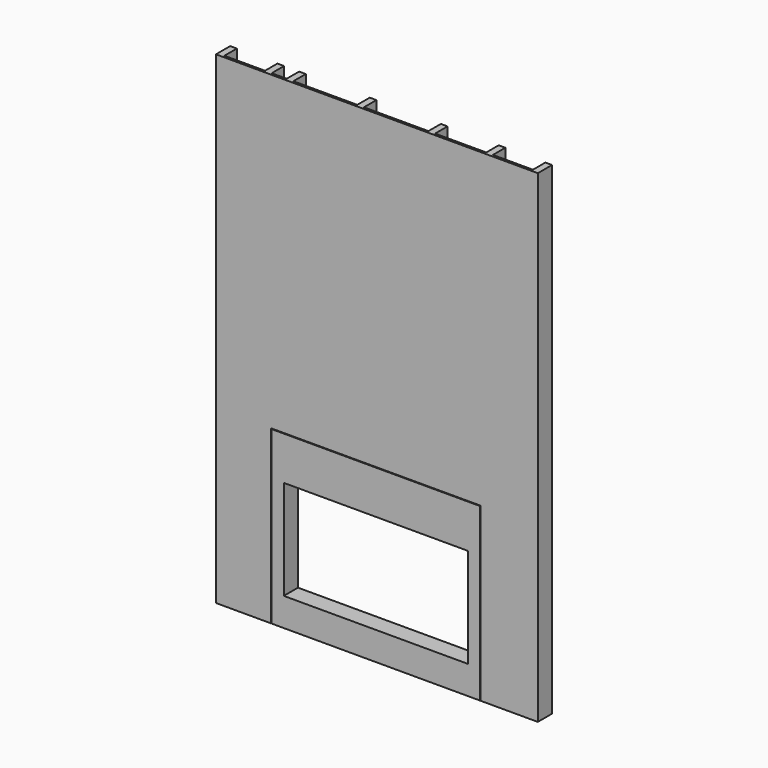
from build123d import *

# Parameters (mm, degrees)
F0_W     = 38.1
F0_H     = 2720.975
F0_H_2   = 1689.1
F1_DEPTH = 88.9
F2_W     = 1190.625
F2_H     = 977.9
F2_W_2   = 1050.925
F2_H_2   = 568.325
F3_DEPTH = 101.6
F4_W     = 412.75
F4_H     = 914.4
F4_W_2   = 1425.575
F4_W_3   = 314.325
F4_H_2   = 981.075
F4_W_4   = 327.025
F5_DEPTH = 12.7


with BuildPart() as f1:
    # F0 (on Front) → F1 (new body)
    with BuildSketch(Plane.XZ):
        with Locations((19.05, 1398.5875)):
            Rectangle(F0_W, F0_H)
        Polygon((38.1, 38.1), (0, 38.1), (0, 0), (307.975, 0), (307.975, 38.1), (269.875, 38.1), align=None)
        Polygon((269.875, 2759.075), (269.875, 38.1), (307.975, 38.1), (307.975, 1031.875), (307.975, 1069.975), (307.975, 2759.075), align=None)
        Polygon((307.975, 1069.975), (307.975, 1031.875), (1533.525, 1031.875), (1533.525, 1069.975), (1241.425, 1069.975), (1203.325, 1069.975), (835.025, 1069.975), (796.925, 1069.975), (431.8, 1069.975), (393.7, 1069.975), align=None)
        Polygon((1533.525, 1069.975), (1533.525, 1031.875), (1533.525, 38.1), (1571.625, 38.1), (1571.625, 2759.075), (1533.525, 2759.075), align=None)
        Polygon((1571.625, 38.1), (1533.525, 38.1), (1533.525, 0), (1838.325, 0), (1838.325, 38.1), (1800.225, 38.1), align=None)
        with Locations((412.75, 1914.525)):
            Rectangle(F0_W, F0_H_2)
        with Locations((1222.375, 1914.525)):
            Rectangle(F0_W, F0_H_2)
        with Locations((1819.275, 1398.5875)):
            Rectangle(F0_W, F0_H)
        with Locations((815.975, 1914.525)):
            Rectangle(F0_W, F0_H_2)
    extrude(amount=F1_DEPTH)

    # F4 (on face) → F5 (join)
    with BuildSketch(Plane.XZ.offset(88.9)):
        with Locations((206.375, 2301.875)):
            Rectangle(F4_W, F4_H)
        with Locations((1125.5375, 2301.875)):
            Rectangle(F4_W_2, F4_H)
        Polygon((412.75, 1844.675), (0, 1844.675), (0, 981.075), (314.325, 981.075), (412.75, 981.075), align=None)
        Polygon((1838.325, 1844.675), (412.75, 1844.675), (412.75, 981.075), (1511.3, 981.075), (1838.325, 981.075), align=None)
        with Locations((157.1625, 490.5375)):
            Rectangle(F4_W_3, F4_H_2)
        with Locations((1674.8125, 490.5375)):
            Rectangle(F4_W_4, F4_H_2)
    extrude(amount=F5_DEPTH)


with BuildPart() as f3:
    # F2 (on face) → F3 (new body)
    with BuildSketch(Plane(origin=(0, 0, 0), x_dir=(-1, 0, 0), z_dir=(0, 1, 0))):
        with Locations((-912.8125, 488.95)):
            Rectangle(F2_W, F2_H)
        with Locations((-912.8125, 446.0875)):
            Rectangle(F2_W_2, F2_H_2, mode=Mode.SUBTRACT)
    extrude(amount=-F3_DEPTH)


solid = Compound([f1.part, f3.part])
